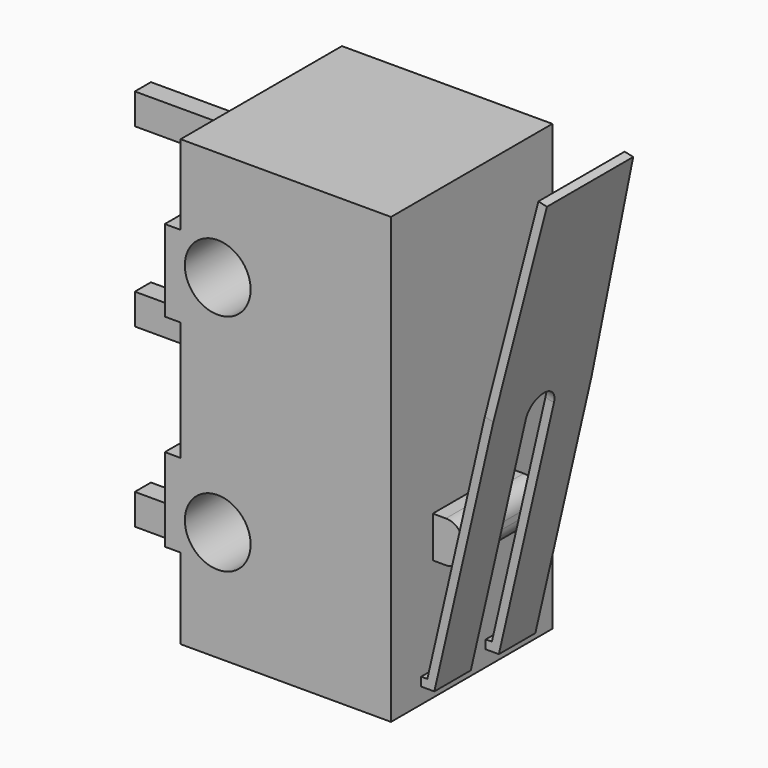
from build123d import *

# Parameters (mm, degrees)
F1_DEPTH  = 5.842
F2_R      = 0.9525
F3_DEPTH  = 25.4
F5_W      = 0.889
F5_H      = 1.1938
F6_DEPTH  = 1.4097
F7_R      = 0.508
F9_DEPTH  = 1.8288
F11_DEPTH = 0.254
F12_W     = 1.016
F12_H     = 0.936952
F13_DEPTH = 25.4
F14_W     = 0.5842
F14_H     = 0.889
F15_DEPTH = 3.429


with BuildPart() as f1:
    # F0 (on Front) → F1 (new body)
    with BuildSketch(Plane.XZ):
        Polygon((0, 2.3368), (0, 0), (6.096, 0), (6.096, 12.8778), (0, 12.8778), (0, 10.5664), (-0.4572, 10.5664), (-0.4572, 8.2042), (0, 8.2042), (0, 4.7498), (-0.4572, 4.7498), (-0.4572, 2.3368), align=None)
    extrude(amount=F1_DEPTH)

    # F2 (on face) → F3 (cut)
    with BuildSketch(Plane.XZ.offset(5.842)):
        with Locations((1.076548, 9.7028)):
            Circle(F2_R)
        with Locations((1.076548, 3.2004)):
            Circle(F2_R)
    extrude(amount=-F3_DEPTH, mode=Mode.SUBTRACT)

    # F5 (on offset) → F6 (join, symmetric)
    with BuildSketch(Plane.XZ.offset(2.921)):
        with Locations((6.5405, 4.1021)):
            Rectangle(F5_W, F5_H)
    extrude(amount=F6_DEPTH, both=True)

    # F7
    f7_edges = [f1.edges().sort_by_distance(p)[0] for p in [
        (6.985, -2.921, 4.699),
        (6.985, -2.921, 3.5052),
    ]]
    fillet(f7_edges, radius=F7_R)

    # F8 (on offset) → F9 (join, symmetric)
    with BuildSketch(Plane.XZ.offset(2.921)):
        Polygon((6.096, 0.7112), (6.096, 0.4572), (6.477, 0.4572), (9.525, 13.699957), (9.277472, 13.756929), (6.274821, 0.7112), align=None)
    extrude(amount=F9_DEPTH, both=True)

    # F10 (on face) → F11 (cut)
    with BuildSketch(Plane(origin=(6.051205, 0, -1.392767), x_dir=(0, 1, 0), z_dir=(0.97452, 0, -0.224299))):
        Polygon((-4.7498, 9.518336), (-4.4831, 15.487336), (-4.7498, 15.487336), align=None)
        Polygon((-1.0922, 9.136269), (-1.0922, 15.487336), (-1.3589, 15.487336), align=None)
        with BuildLine():
            Line((-3.429, 9.010336), (-3.429, 1.898336))
            Line((-3.429, 1.898336), (-2.413, 1.898336))
            Line((-2.413, 1.898336), (-2.413, 9.010336))
            ThreePointArc((-2.413, 9.010336), (-2.56179, 9.369546), (-2.921, 9.518336))
            ThreePointArc((-2.921, 9.518336), (-3.28021, 9.369546), (-3.429, 9.010336))
        make_face()
    extrude(amount=-F11_DEPTH, mode=Mode.SUBTRACT)

    # F12 (on face) → F13 (cut)
    with BuildSketch(Plane.YZ.offset(6.096)):
        with Locations((-2.921, 0.633924)):
            Rectangle(F12_W, F12_H)
    extrude(amount=F13_DEPTH, mode=Mode.SUBTRACT)

    # F14 (on face) → F15 (join)
    with BuildSketch(Plane(origin=(0, 0, 0), x_dir=(0, -1, 0), z_dir=(-1, 0, 0))):
        with Locations((2.921, 6.3627)):
            Rectangle(F14_W, F14_H)
        with Locations((2.921, 11.4681)):
            Rectangle(F14_W, F14_H)
        with Locations((2.921, 1.2573)):
            Rectangle(F14_W, F14_H)
    extrude(amount=F15_DEPTH)


solid = f1.part
